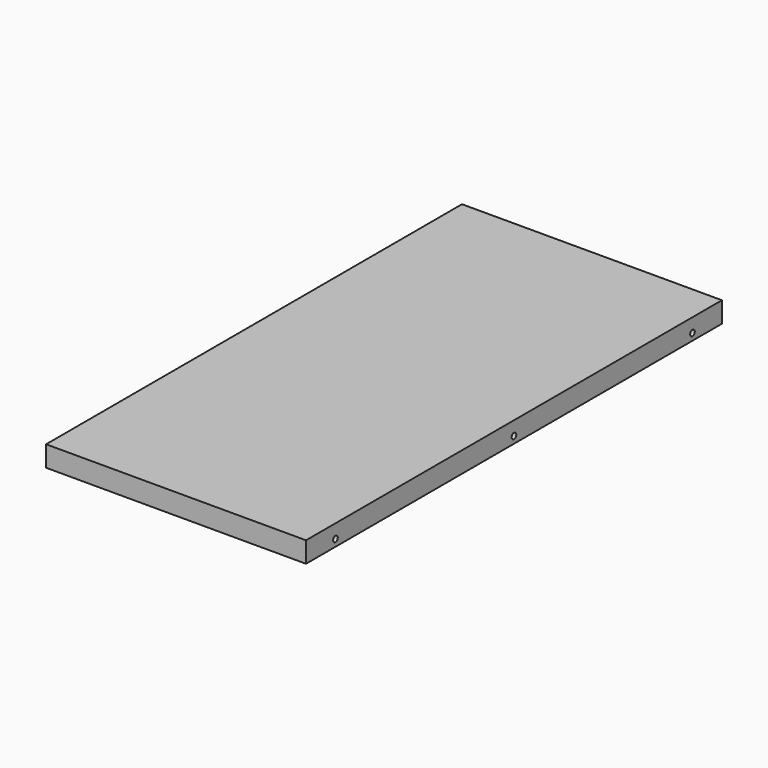
from build123d import *

# Parameters (mm, degrees)
F0_W      = 358.775
F0_H      = 717.55
F1_DEPTH  = 19.05
F3_D      = 8.001
F3_DEPTH  = 25.4
F3_TIP    = 2.4037429064
F5_D      = 8.001
F5_DEPTH  = 25.4
F5_TIP    = 2.4037429064
F7_D      = 8.001
F7_DEPTH  = 25.4
F7_TIP    = 2.4037429064
F9_D      = 15.0114
F9_DEPTH  = 14.224
F9_TIP    = 4.5098795482
F10_DEPTH = 9.525
F12_D     = 8.001
F12_DEPTH = 25.4
F12_TIP   = 2.4037429064


with BuildPart() as f1:
    # F0 (on Top) → F1 (new body)
    with BuildSketch(Plane.XY):
        Rectangle(F0_W, F0_H)
    extrude(amount=F1_DEPTH)

    # F3
    with Locations(Plane(origin=(-179.3875, 0, 0), x_dir=(0, -1, 0), z_dir=(-1, 0, 0))):
        with Locations((-307.975, 9.525), (0, 9.525), (307.975, 9.525)):
            Hole(F3_D / 2, depth=F3_DEPTH)
            with Locations((0, 0, -(F3_DEPTH + F3_TIP / 2))):  # 118° drill point
                Cone(0, F3_D / 2, F3_TIP, mode=Mode.SUBTRACT)

    # F5
    with Locations(Plane.YZ.offset(179.3875)):
        with Locations((-307.975, 9.525), (0, 9.525), (307.975, 9.525)):
            Hole(F5_D / 2, depth=F5_DEPTH)
            with Locations((0, 0, -(F5_DEPTH + F5_TIP / 2))):  # 118° drill point
                Cone(0, F5_D / 2, F5_TIP, mode=Mode.SUBTRACT)

    # F7
    with Locations(Plane(origin=(0, 358.775, 0), x_dir=(-1, 0, 0), z_dir=(0, 1, 0))):
        with Locations((-128.5875, 9.525), (0, 9.525), (128.5875, 9.525)):
            Hole(F7_D / 2, depth=F7_DEPTH)
            with Locations((0, 0, -(F7_DEPTH + F7_TIP / 2))):  # 118° drill point
                Cone(0, F7_D / 2, F7_TIP, mode=Mode.SUBTRACT)

    # F9
    with Locations(Plane(origin=(0, 0, 0), x_dir=(1, 0, 0), z_dir=(0, 0, -1))):
        with Locations((-155.5115, 307.975), (155.5115, 307.975), (155.5115, 0), (-155.5115, 0), (-155.5115, -307.975), (-134.6194893122, -334.899), (0, -334.899), (128.5875, -334.899), (155.5115, -307.975)):
            Hole(F9_D / 2, depth=F9_DEPTH)
            with Locations((0, 0, -(F9_DEPTH + F9_TIP / 2))):  # 118° drill point
                Cone(0, F9_D / 2, F9_TIP, mode=Mode.SUBTRACT)

    # F10 (add): a face of the model
    f10_faces = [f1.faces().sort_by_distance(p)[0] for p in [
        (0, 0, 19.05),
    ]]
    extrude(f10_faces, amount=F10_DEPTH)

    # F12
    with Locations(Plane(origin=(0, 0, 0), x_dir=(1, 0, 0), z_dir=(0, 0, -1))):
        with Locations((-128.5875, 307.975), (-84.1375, 307.975), (-84.1375, 234.95), (-128.5875, 234.95), (84.1375, 307.975), (128.5875, 307.975), (128.5875, 234.95), (84.1375, 234.95), (128.5875, -234.95), (84.1375, -234.95), (84.1375, -307.975), (128.5875, -307.975), (-84.1375, -234.95), (-128.5875, -234.95), (-128.5875, -307.975), (-84.1375, -307.975)):
            Hole(F12_D / 2, depth=F12_DEPTH)
            with Locations((0, 0, -(F12_DEPTH + F12_TIP / 2))):  # 118° drill point
                Cone(0, F12_D / 2, F12_TIP, mode=Mode.SUBTRACT)


solid = f1.part
